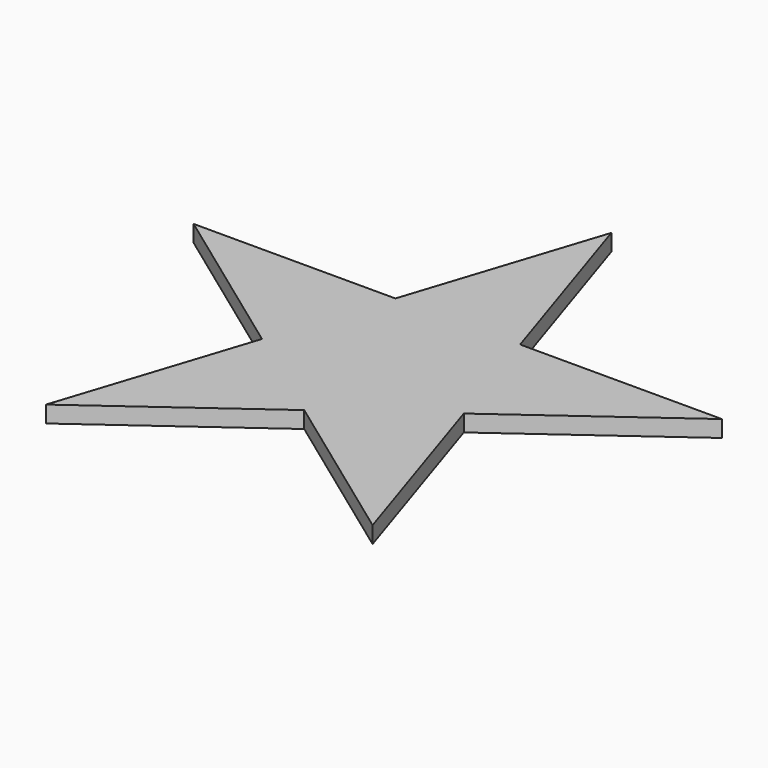
from build123d import *

# Parameters (mm, degrees)
F1_DEPTH = 3


with BuildPart() as f1:
    # F0 (on Top) → F1 (new body)
    with BuildSketch(Plane.XY):
        Polygon((0, 15.4508497187), (0, 50), (-11.2256994145, 15.4508497187), align=None)
        Polygon((11.2256994145, 15.4508497187), (0, 50), (0, 15.4508497187), align=None)
        Polygon((14.6946313073, 4.7745751406), (47.5528258148, 15.4508497187), (11.2256994145, 15.4508497187), align=None)
        Polygon((18.1635632001, -5.9016994375), (47.5528258148, 15.4508497187), (14.6946313073, 4.7745751406), align=None)
        Polygon((9.0817816001, -12.5), (29.3892626146, -40.4508497187), (18.1635632001, -5.9016994375), align=None)
        Polygon((0, -19.0983005625), (29.3892626146, -40.4508497187), (9.0817816001, -12.5), align=None)
        Polygon((-18.1635632001, -5.9016994375), (-29.3892626146, -40.4508497187), (-9.0817816001, -12.5), align=None)
        Polygon((-9.0817816001, -12.5), (-29.3892626146, -40.4508497187), (0, -19.0983005625), align=None)
        Polygon((-14.6946313073, 4.7745751406), (-47.5528258148, 15.4508497187), (-18.1635632001, -5.9016994375), align=None)
        Polygon((-11.2256994145, 15.4508497187), (-47.5528258148, 15.4508497187), (-14.6946313073, 4.7745751406), align=None)
        Polygon((0, 0), (14.6946313073, 4.7745751406), (11.2256994145, 15.4508497187), (0, 15.4508497187), align=None)
        Polygon((0, 0), (0, 15.4508497187), (-11.2256994145, 15.4508497187), (-14.6946313073, 4.7745751406), align=None)
        Polygon((-9.0817816001, -12.5), (0, 0), (-14.6946313073, 4.7745751406), (-18.1635632001, -5.9016994375), align=None)
        Polygon((0, -19.0983005625), (9.0817816001, -12.5), (0, 0), (-9.0817816001, -12.5), align=None)
        Polygon((18.1635632001, -5.9016994375), (14.6946313073, 4.7745751406), (0, 0), (9.0817816001, -12.5), align=None)
    extrude(amount=F1_DEPTH)


solid = f1.part
